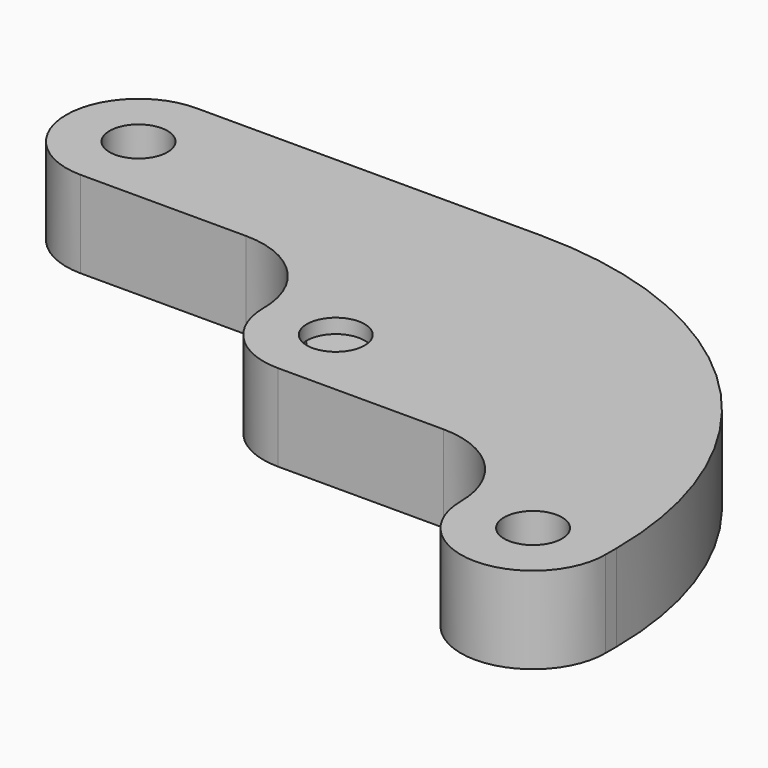
from build123d import *

# Parameters (mm, degrees)
F0_R     = 2
F1_DEPTH = 6
F3_DEPTH = 5
F3_TAPER = -5


with BuildPart() as f1:
    # F0 (on Top) → F1 (new body)
    with BuildSketch(Plane.XY):
        with BuildLine():
            ThreePointArc((-22.4499443206, 16), (-27.4499443206, 11), (-22.4499443206, 6))
            Line((-22.4499443206, 6), (-11, 6))
            ThreePointArc((-11, 6), (-6.7573593129, 4.2426406871), (-5, 0))
            ThreePointArc((-5, 0), (-3.5355339059, -3.5355339059), (0, -5))
            Line((0, -5), (11.4499443206, -5))
            ThreePointArc((11.4499443206, -5), (15.6925850078, -6.7573593129), (17.4499443206, -11))
            ThreePointArc((17.4499443206, -11), (22.4499443206, -16), (27.4499443206, -11))
            Line((27.4499443206, -11), (27.4499443206, -10.047595575))
            ThreePointArc((27.4499443206, -10.047595575), (19.8207802103, 8.3708358897), (1.4023487456, 16))
            Line((1.4023487456, 16), (-22.4499443206, 16))
        make_face()
        with Locations((22.4499443206, -11)):
            Circle(F0_R, mode=Mode.SUBTRACT)
        with Locations((-22.4499443206, 11)):
            Circle(F0_R, mode=Mode.SUBTRACT)
        Circle(F0_R, mode=Mode.SUBTRACT)
    extrude(amount=F1_DEPTH)

    # F2 (on face) → F3 (cut)
    with BuildSketch(Plane(origin=(0, 0, 0), x_dir=(1, 0, 0), z_dir=(0, 0, -1))):
        Polygon((0, -4.0414518843), (3.5, -2.0207259422), (3.5, 2.0207259422), (0, 4.0414518843), (-3.5, 2.0207259422), (-3.5, -2.0207259422), align=None)
    extrude(amount=-F3_DEPTH, taper=F3_TAPER, mode=Mode.SUBTRACT)


solid = f1.part
